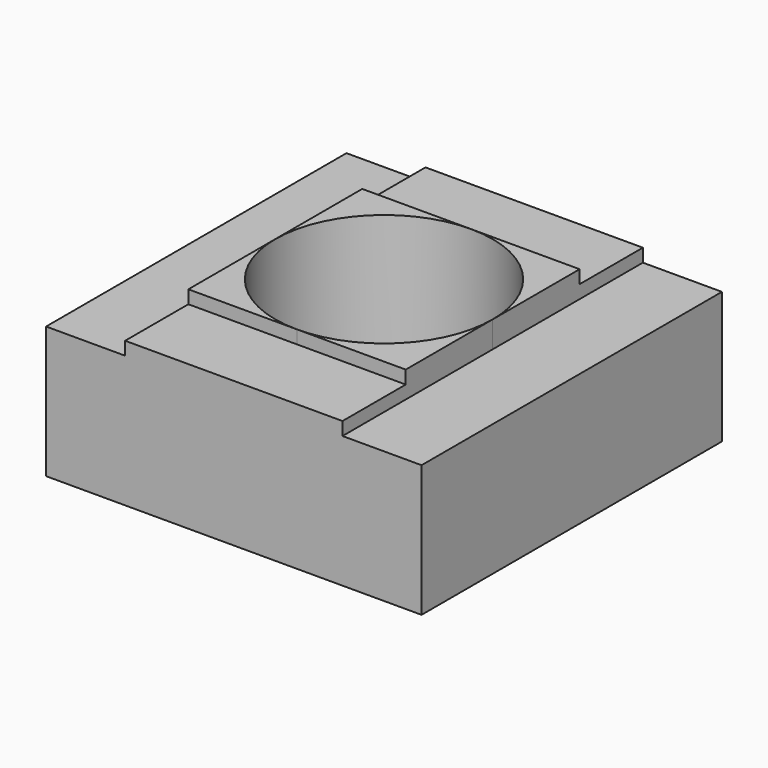
from build123d import *

# Parameters (mm, degrees)
CYLINDER002_R     = 1.65
CYLINDER002_DEPTH = 10
BOX009_W          = 10
BOX009_H          = 10
BOX009_DEPTH      = 0.2
BOX010_W          = 10
BOX010_H          = 10
BOX010_DEPTH      = 0.4
BOX011_W          = 10
BOX011_H          = 10
BOX011_DEPTH      = 0.2
BOX008_W          = 10
BOX008_H          = 10
BOX008_DEPTH      = 0.4
BOX007_W          = 5.7
BOX007_H          = 5.7
BOX007_DEPTH      = 2.4


with BuildPart() as cylinder002:
    # Cylinder002 → Cylinder002 (new body)
    with BuildSketch(Plane.XY):
        Circle(CYLINDER002_R)
    extrude(amount=CYLINDER002_DEPTH)


with BuildPart() as cube008:
    # Box009 → Box009 (new body)
    with BuildSketch(Plane(origin=(-5, 1.65, 2.2), x_dir=(1, 0, 0), z_dir=(0, 0, 1))):
        with Locations((5, 5)):
            Rectangle(BOX009_W, BOX009_H)
    extrude(amount=BOX009_DEPTH)


with BuildPart() as cube009:
    # Box010 → Box010 (new body)
    with BuildSketch(Plane(origin=(-11.65, -5, 2), x_dir=(1, 0, 0), z_dir=(0, 0, 1))):
        with Locations((5, 5)):
            Rectangle(BOX010_W, BOX010_H)
    extrude(amount=BOX010_DEPTH)


with BuildPart() as cube010:
    # Box011 → Box011 (new body)
    with BuildSketch(Plane(origin=(-5, -11.65, 2.2), x_dir=(1, 0, 0), z_dir=(0, 0, 1))):
        with Locations((5, 5)):
            Rectangle(BOX011_W, BOX011_H)
    extrude(amount=BOX011_DEPTH)


with BuildPart() as fusion009:
    # Box008 → Box008 (new body)
    with BuildSketch(Plane(origin=(1.65, -5, 2), x_dir=(1, 0, 0), z_dir=(0, 0, 1))):
        with Locations((5, 5)):
            Rectangle(BOX008_W, BOX008_H)
    extrude(amount=BOX008_DEPTH)

    # Fusion008: union Cube008, Cube009, Cube010
    add(cube008.part)
    add(cube009.part)
    add(cube010.part)

    # Fusion009: union Cylinder002
    add(cylinder002.part)


with BuildPart() as cut006:
    # Box007 → Box007 (new body)
    with BuildSketch(Plane(origin=(-2.85, -2.85, 0), x_dir=(1, 0, 0), z_dir=(0, 0, 1))):
        with Locations((2.85, 2.85)):
            Rectangle(BOX007_W, BOX007_H)
    extrude(amount=BOX007_DEPTH)

    # Cut006: cut Fusion009
    add(fusion009.part, mode=Mode.SUBTRACT)


solid = cut006.part
